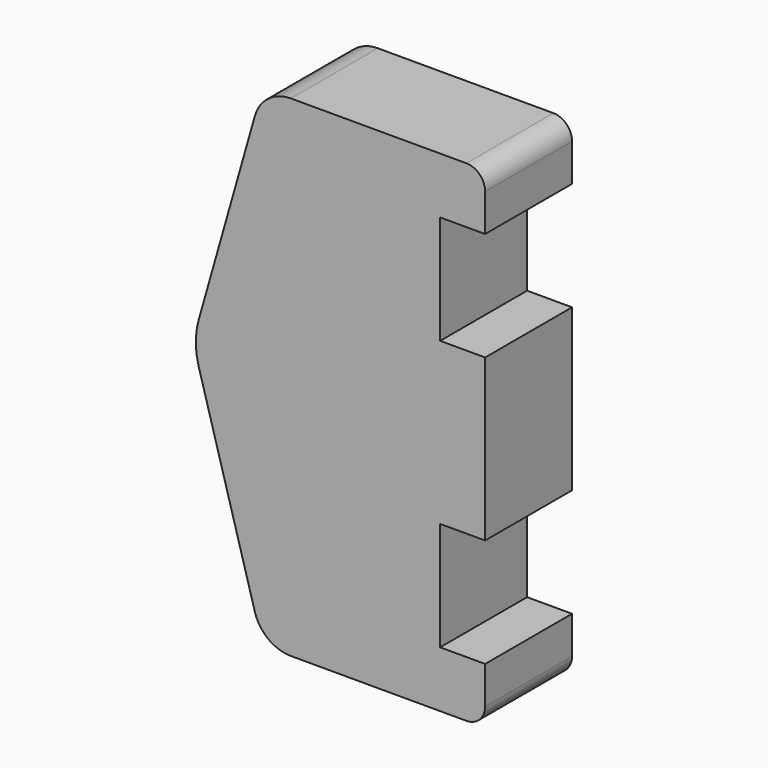
from build123d import *

# Parameters (mm, degrees)
F1_DEPTH = 29


with BuildPart() as f1:
    # F0 (on Front) → F1 (new body)
    with BuildSketch(Plane.XZ):
        with BuildLine():
            Line((0, -21.5), (0, 0))
            Line((0, 0), (0, 21.5))
            Line((0, 21.5), (-12, 21.5))
            Line((-12, 21.5), (-12, 50.5))
            Line((-12, 50.5), (0, 50.5))
            Line((0, 50.5), (0, 60.5))
            ThreePointArc((0, 60.5), (-1.464466, 64.035534), (-5, 65.5))
            Line((-5, 65.5), (-51.839393, 65.5))
            ThreePointArc((-51.839393, 65.5), (-57.867476, 63.47886), (-61.45884, 58.232443))
            Line((-61.45884, 58.232443), (-76.447677, 5.464885))
            ThreePointArc((-76.447677, 5.464885), (-77.208784, 0), (-76.447677, -5.464885))
            Line((-76.447677, -5.464885), (-61.45884, -58.232443))
            ThreePointArc((-61.45884, -58.232443), (-57.867476, -63.47886), (-51.839393, -65.5))
            Line((-51.839393, -65.5), (-5, -65.5))
            ThreePointArc((-5, -65.5), (-1.464466, -64.035534), (0, -60.5))
            Line((0, -60.5), (0, -50.5))
            Line((0, -50.5), (-12, -50.5))
            Line((-12, -50.5), (-12, -21.5))
            Line((-12, -21.5), (0, -21.5))
        make_face()
    extrude(amount=F1_DEPTH)


solid = f1.part
